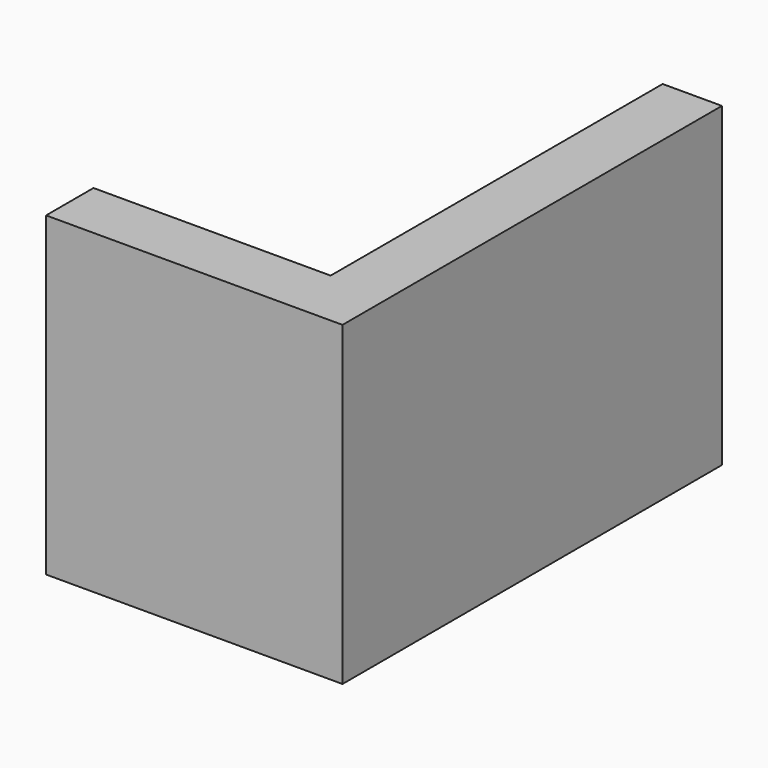
from build123d import *

# Parameters (mm, degrees)
F1_DEPTH = 101.6
F0_W     = 76.2
F0_H     = 19.05
F2_DEPTH = 101.6


with BuildPart() as f1:
    # F0 (on Top) → F1 (new body)
    with BuildSketch(Plane.XY):
        Polygon((0, 152.4), (0, 19.05), (19.05, 0), (19.05, 152.4), align=None)
    extrude(amount=F1_DEPTH)


with BuildPart() as f2:
    # F0 (on Top) → F2 (new body)
    with BuildSketch(Plane.XY):
        with Locations((-38.1, 9.525)):
            Rectangle(F0_W, F0_H)
        Polygon((0, 19.05), (0, 0), (19.05, 0), align=None)
        Polygon((0, 152.4), (0, 19.05), (19.05, 0), (19.05, 152.4), align=None)
    extrude(amount=F2_DEPTH)


solid = Compound([f1.part, f2.part])
